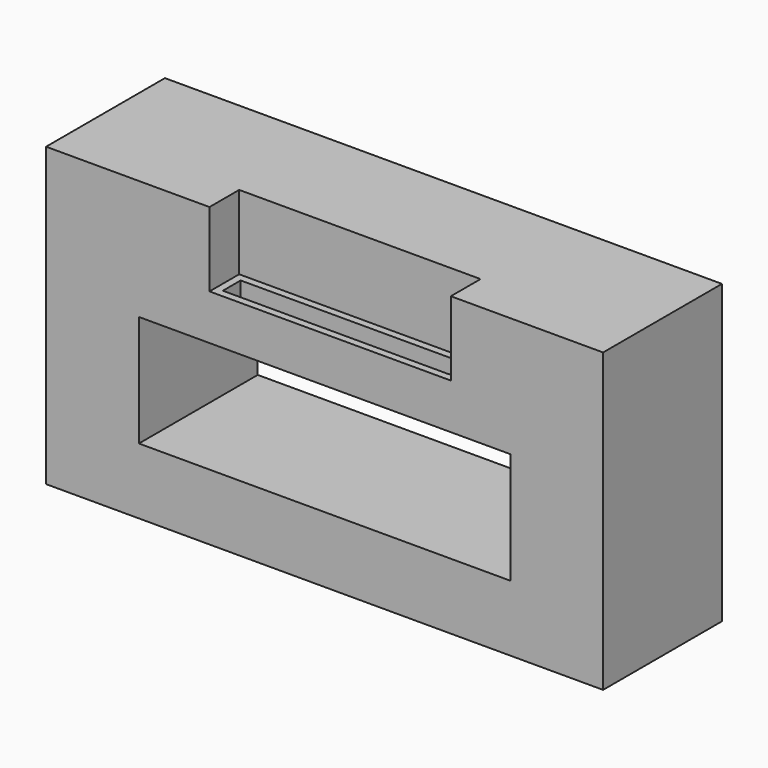
from build123d import *

# Parameters (mm, degrees)
F0_W     = 150
F0_H     = 40
F1_DEPTH = 80
F2_W     = 65
F2_H     = 20
F3_DEPTH = 10
F4_W     = 100
F4_H     = 30
F5_DEPTH = 87.2
F6_W     = 61
F6_H     = 6
F7_DEPTH = 25


with BuildPart() as f1:
    # F0 (on Top) → F1 (new body)
    with BuildSketch(Plane.XY):
        with Locations((-0.189516, 7.814032)):
            Rectangle(F0_W, F0_H)
    extrude(amount=F1_DEPTH)

    # F2 (on face) → F3 (cut)
    with BuildSketch(Plane.XZ.offset(12.185968)):
        with Locations((1.311038, 70)):
            Rectangle(F2_W, F2_H)
    extrude(amount=-F3_DEPTH, mode=Mode.SUBTRACT)

    # F4 (on face) → F5 (cut)
    with BuildSketch(Plane.XZ.offset(12.185968)):
        with Locations((-0.189516, 32.763609)):
            Rectangle(F4_W, F4_H)
    extrude(amount=-F5_DEPTH, mode=Mode.SUBTRACT)

    # F6 (on face) → F7 (cut)
    with BuildSketch(Plane.XY.offset(60)):
        with Locations((1.311038, -7.185968)):
            Rectangle(F6_W, F6_H)
    extrude(amount=-F7_DEPTH, mode=Mode.SUBTRACT)


solid = f1.part
